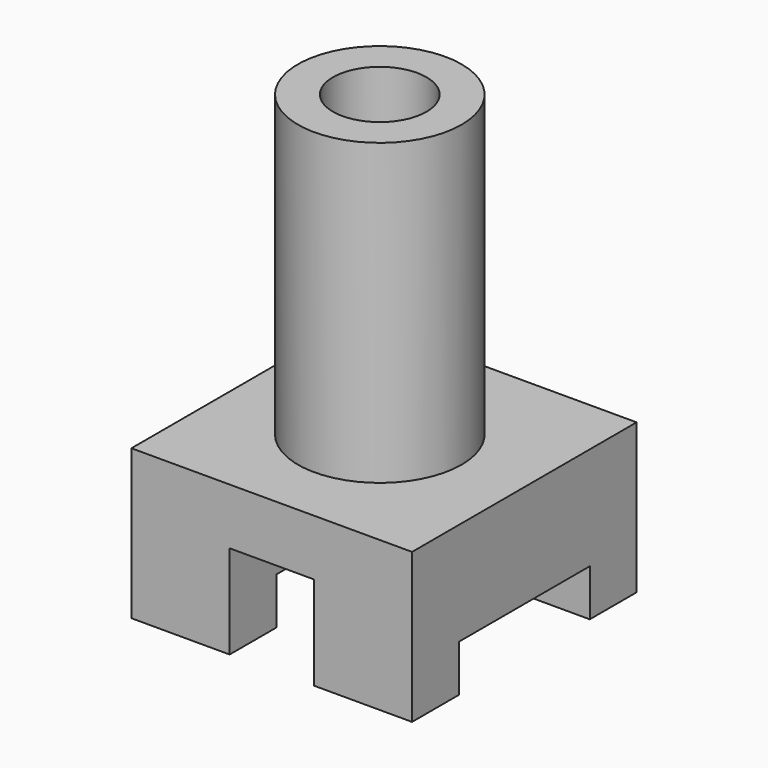
from build123d import *

# Parameters (mm, degrees)
F0_W     = 60
F0_H     = 60
F1_DEPTH = 32
F2_W     = 18
F2_H     = 20
F3_DEPTH = 60.001
F4_W     = 35
F4_H     = 10
F5_DEPTH = 60.001
F6_R     = 17.5
F6_R_2   = 10
F7_DEPTH = 64


with BuildPart() as f1:
    # F0 (on Top) → F1 (new body)
    with BuildSketch(Plane.XY):
        with Locations((0.728403, 0.219683)):
            Rectangle(F0_W, F0_H)
    extrude(amount=F1_DEPTH)

    # F2 (on face) → F3 (cut, through all)
    with BuildSketch(Plane.XZ.offset(29.780317)):
        with Locations((0.728403, 10)):
            Rectangle(F2_W, F2_H)
    extrude(amount=-F3_DEPTH, mode=Mode.SUBTRACT)

    # F4 (on face) → F5 (cut, through all)
    with BuildSketch(Plane.YZ.offset(30.728403)):
        with Locations((0.219683, 5)):
            Rectangle(F4_W, F4_H)
    extrude(amount=-F5_DEPTH, mode=Mode.SUBTRACT)

    # F6 (on face) → F7 (join)
    with BuildSketch(Plane.XY.offset(32)):
        Circle(F6_R)
        Circle(F6_R_2, mode=Mode.SUBTRACT)
    extrude(amount=F7_DEPTH)


solid = f1.part
